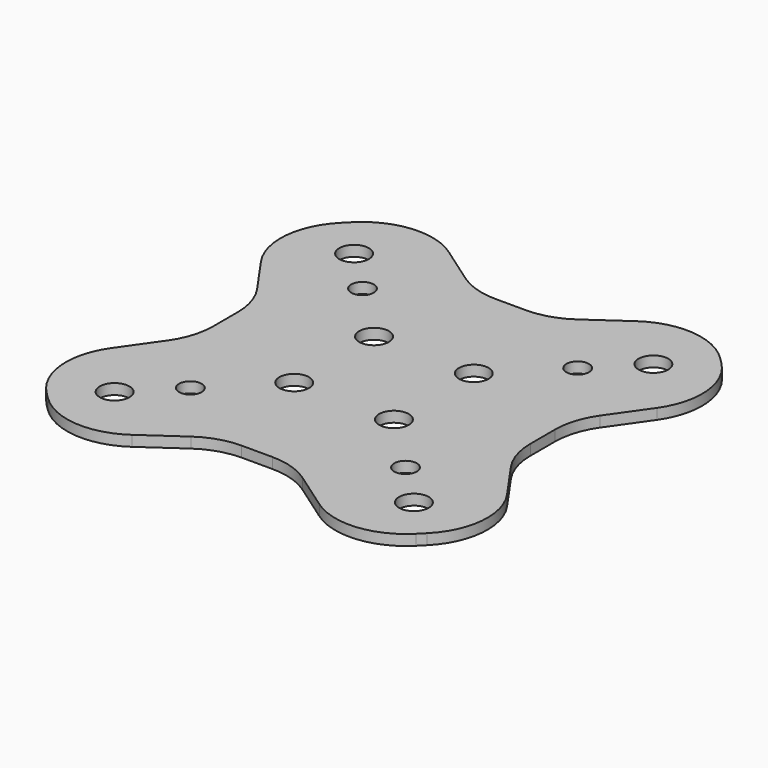
from build123d import *

# Parameters (mm, degrees)
F0_R     = 2.1
F0_R_2   = 1.6
F1_DEPTH = 1.5
F2_R     = 10


with BuildPart() as f1:
    # F0 (on Top) → F1 (new body)
    with BuildSketch(Plane.XY):
        Polygon((-20.152543, 32.880465), (-32.880465, 20.152543), (-22.5, 5.327702), (-22.5, -5.327702), (-32.880465, -20.152543), (-20.152543, -32.880465), (-5.327702, -22.5), (5.327702, -22.5), (20.152543, -32.880465), (32.880465, -20.152543), (22.5, -5.327702), (22.5, 5.327702), (32.880465, 20.152543), (20.152543, 32.880465), (5.327702, 22.5), (-5.327702, 22.5), align=None)
        with Locations((-21.213203, -21.213203)):
            Circle(F0_R, mode=Mode.SUBTRACT)
        with Locations((-15.25, -15.25)):
            Circle(F0_R_2, mode=Mode.SUBTRACT)
        with Locations((-7.071068, -7.071068)):
            Circle(F0_R, mode=Mode.SUBTRACT)
        with Locations((21.213203, -21.213203)):
            Circle(F0_R, mode=Mode.SUBTRACT)
        with Locations((15.25, -15.25)):
            Circle(F0_R_2, mode=Mode.SUBTRACT)
        with Locations((7.071068, -7.071068)):
            Circle(F0_R, mode=Mode.SUBTRACT)
        with Locations((-7.071068, 7.071068)):
            Circle(F0_R, mode=Mode.SUBTRACT)
        with Locations((-15.25, 15.25)):
            Circle(F0_R_2, mode=Mode.SUBTRACT)
        with Locations((-21.213203, 21.213203)):
            Circle(F0_R, mode=Mode.SUBTRACT)
        with Locations((7.071068, 7.071068)):
            Circle(F0_R, mode=Mode.SUBTRACT)
        with Locations((15.25, 15.25)):
            Circle(F0_R_2, mode=Mode.SUBTRACT)
        with Locations((21.213203, 21.213203)):
            Circle(F0_R, mode=Mode.SUBTRACT)
    extrude(amount=F1_DEPTH)

    # F2
    f2_edges = [f1.edges().sort_by_distance(p)[0] for p in [
        (-32.880465, 20.152543, 0.75),
        (-22.5, 5.327702, 0.75),
        (-22.5, -5.327702, 0.75),
        (-32.880465, -20.152543, 0.75),
        (-20.152543, -32.880465, 0.75),
        (-5.327702, -22.5, 0.75),
        (5.327702, -22.5, 0.75),
        (20.152543, -32.880465, 0.75),
        (32.880465, -20.152543, 0.75),
        (22.5, -5.327702, 0.75),
        (22.5, 5.327702, 0.75),
        (32.880465, 20.152543, 0.75),
        (-20.152543, 32.880465, 0.75),
        (20.152543, 32.880465, 0.75),
        (5.327702, 22.5, 0.75),
        (-5.327702, 22.5, 0.75),
    ]]
    fillet(f2_edges, radius=F2_R)


solid = f1.part
